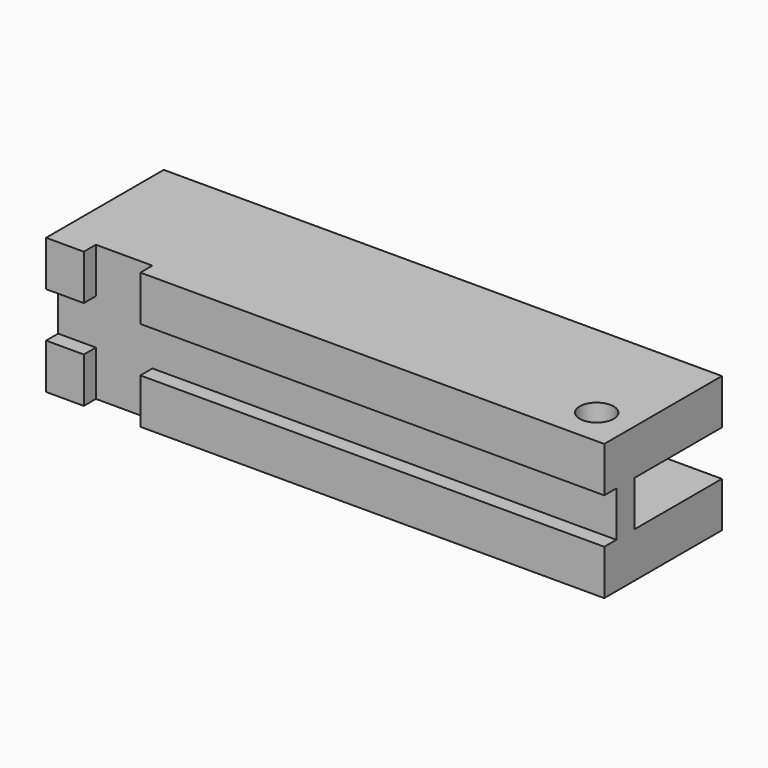
from build123d import *

# Parameters (mm, degrees)
F0_W     = 148
F0_H     = 12
F1_DEPTH = 39
F2_DEPTH = 29
F3_W     = 123
F3_H     = 12
F3_W_2   = 15
F3_W_3   = 10
F4_DEPTH = 4
F5_R     = 4.5
F6_DEPTH = 36


with BuildPart() as f1:
    # F0 (on Front) → F1 (new body)
    with BuildSketch(Plane.XZ):
        with Locations((0, 12)):
            Rectangle(F0_W, F0_H)
        with Locations((0, -12)):
            Rectangle(F0_W, F0_H)
        Rectangle(F0_W, F0_H)
    extrude(amount=F1_DEPTH)

    # F0 (on Front) → F2 (cut)
    with BuildSketch(Plane.XZ):
        Rectangle(F0_W, F0_H)
    extrude(amount=F2_DEPTH, mode=Mode.SUBTRACT)

    # F3 (on face) → F4 (cut)
    with BuildSketch(Plane.XZ.offset(39)):
        with Locations((12.5, 0)):
            Rectangle(F3_W, F3_H)
        with Locations((-56.5, 0)):
            Rectangle(F3_W_2, F3_H)
        with Locations((-69, 0)):
            Rectangle(F3_W_3, F3_H)
        with Locations((-56.5, 12)):
            Rectangle(F3_W_2, F3_H)
        with Locations((-56.5, -12)):
            Rectangle(F3_W_2, F3_H)
    extrude(amount=-F4_DEPTH, mode=Mode.SUBTRACT)

    # F5 (on face) → F6 (cut)
    with BuildSketch(Plane.XY.offset(18)):
        with Locations((64, -29)):
            Circle(F5_R)
    extrude(amount=-F6_DEPTH, mode=Mode.SUBTRACT)


solid = f1.part
